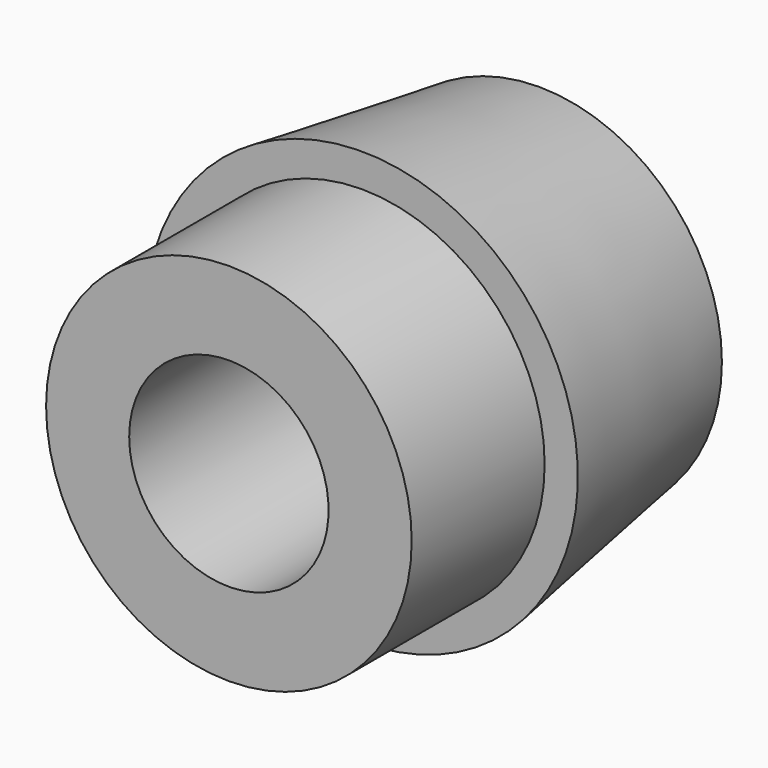
from build123d import *

# Parameters (mm, degrees)
F2_R     = 1.8
F3_DEPTH = 7.001


with BuildPart() as f1:
    # F0 (on Top) → F1 (revolve)
    with BuildSketch(Plane.XY):
        Polygon((-3.3, 0), (0, 0), (0, 7), (-3.3, 7), (-3.9, 3), (-3.3, 3), align=None)
    revolve(axis=Axis((0, 3.5, 0), (0, -1, 0)))

    # F2 (on face) → F3 (cut, through all)
    with BuildSketch(Plane(origin=(0, 7, 0), x_dir=(-1, 0, 0), z_dir=(0, 1, 0))):
        Circle(F2_R)
    extrude(amount=-F3_DEPTH, mode=Mode.SUBTRACT)


solid = f1.part
